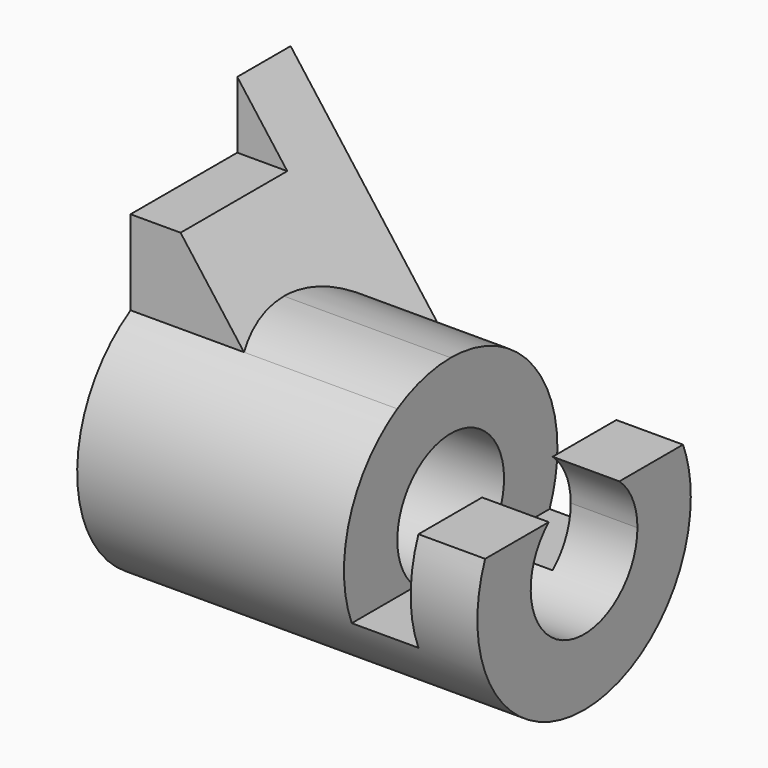
from build123d import *

# Parameters (mm, degrees)
F1_DEPTH  = 25.4
F3_DEPTH  = 76.201
F5_DEPTH  = 76.201
F7_DEPTH  = 31.75
F10_R     = 12.7
F11_DEPTH = 76.201
F13_DEPTH = 12.7
F15_DEPTH = 12.7


with BuildPart() as f1:
    # F0 (on Front) → F1 (new body, symmetric)
    with BuildSketch(Plane.XZ):
        Polygon((0, 47.625), (0, 0), (76.2, 0), (76.2, 34.925), (63.5, 34.925), (63.5, 15.875), (50.8, 15.875), (50.8, 50.8), (19.05, 50.8), (21.43125, 47.625), align=None)
        Polygon((0, 76.2), (0, 47.625), (21.43125, 47.625), (19.05, 50.8), align=None)
    extrude(amount=F1_DEPTH, both=True)

    # F2 (on face) → F3 (cut, through all)
    with BuildSketch(Plane.YZ.offset(76.2)):
        with BuildLine():
            Line((-25.4, 0), (-1.82e-08, 0))
            ThreePointArc((-1.82e-08, 0), (-17.9605122486, 7.4394877643), (-25.4, 25.4))
            Line((-25.4, 25.4), (-25.4, 0))
        make_face()
        with BuildLine():
            Line((25.4, 0), (25.4, 25.4))
            ThreePointArc((25.4, 25.4), (17.9605122357, 7.4394877514), (-1.82e-08, 0))
            Line((-1.82e-08, 0), (25.4, 0))
        make_face()
    extrude(amount=-F3_DEPTH, mode=Mode.SUBTRACT)

    # F4 (on Right) → F5 (cut, through all)
    with BuildSketch(Plane.YZ):
        with BuildLine():
            Line((12.7, 63.5), (12.7, 76.2))
            Line((12.7, 76.2), (-25.4, 76.2))
            Line((-25.4, 76.2), (-25.4, 25.4))
            ThreePointArc((-25.4, 25.4), (-21.9970452561, 38.1), (-12.7, 47.3970452561))
            Line((-12.7, 47.3970452561), (-12.7, 63.5))
            Line((-12.7, 63.5), (12.7, 63.5))
        make_face()
    extrude(amount=F5_DEPTH, mode=Mode.SUBTRACT)

    # F6 (on face) → F7 (cut)
    with BuildSketch(Plane.YZ.offset(50.8)):
        with BuildLine():
            ThreePointArc((6.88e-08, 50.8), (17.9605122665, 43.3605122178), (25.4, 25.4))
            Line((25.4, 25.4), (25.4, 50.8))
            Line((25.4, 50.8), (6.88e-08, 50.8))
        make_face()
        with BuildLine():
            ThreePointArc((-12.7, 47.3970452561), (-6.5740037124, 49.9345159966), (6.88e-08, 50.8))
            Line((6.88e-08, 50.8), (-12.7, 50.8))
            Line((-12.7, 50.8), (-12.7, 47.3970452561))
        make_face()
    extrude(amount=-F7_DEPTH, mode=Mode.SUBTRACT)

    # F8 (on face) → F9 (join, up to the next surface of F1)
    with BuildSketch(Plane(origin=(0, 25.4, 0), x_dir=(-1, 0, 0), z_dir=(0, 1, 0))):
        Polygon((-38.1, 25.4), (-19.05, 25.4), (-19.05, 50.8), align=None)
    extrude(until=Until.NEXT, dir=(0, -1, 0))

    # F10 (on face) → F11 (cut, through all)
    with BuildSketch(Plane.YZ.offset(76.2)):
        with Locations((0, 25.4)):
            Circle(F10_R)
    extrude(amount=-F11_DEPTH, mode=Mode.SUBTRACT)

    # F12 (on face) → F13 (cut)
    with BuildSketch(Plane.YZ.offset(76.2)):
        with BuildLine():
            ThreePointArc((23.5464301965, 34.925), (24.9323016085, 30.2518384664), (25.4, 25.4))
            Line((25.4, 25.4), (25.4, 34.925))
            Line((25.4, 34.925), (23.5464301965, 34.925))
        make_face()
    extrude(amount=-F13_DEPTH, mode=Mode.SUBTRACT)

    # F14 (on face) → F15 (join)
    with BuildSketch(Plane.XZ.offset(12.7)):
        Polygon((0, 63.5), (0, 47.3970452561), (21.6022160579, 47.3970452561), (9.525, 63.5), align=None)
    extrude(amount=-F15_DEPTH)


solid = f1.part
